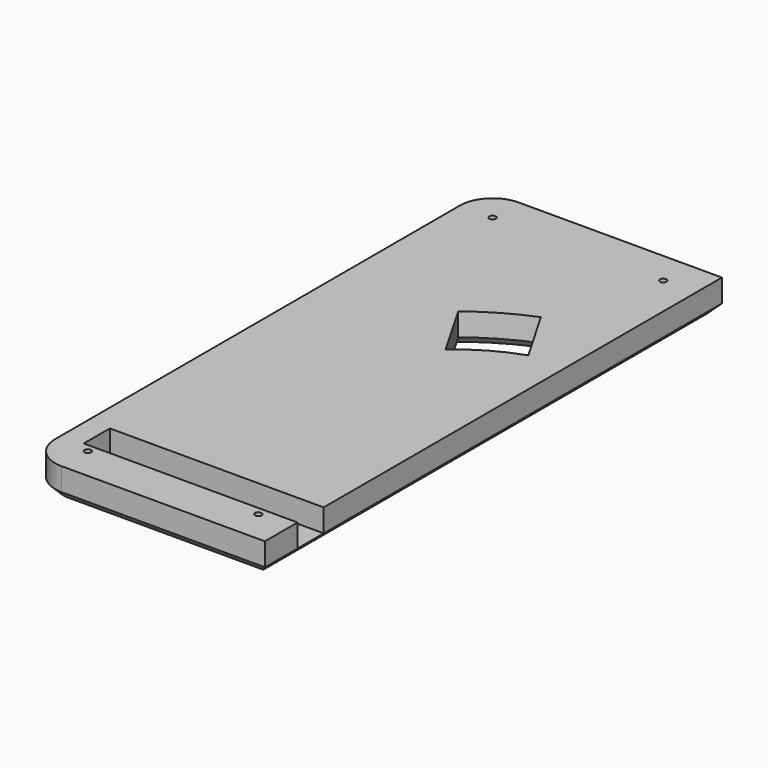
from build123d import *

# Parameters (mm, degrees)
SKETCH024_W             = 144.5
SKETCH024_H             = 350
PAD017_DEPTH            = 19
FILLET007_R             = 20
SKETCH025_R             = 2
POCKET015_DEPTH         = 19.001
CHAMFER005_SIZE         = 5
POCKET020_DEPTH         = 19.001
CHAMFER006_SIZE         = 5
CHAMFER007_SIZE         = 3
SKETCH045_W             = 131
SKETCH045_H             = 20
POCKET029_DEPTH         = 14
BODY013_PLACEMENT_ANGLE = 180


with BuildPart() as part:
    # Sketch024 → Pad017 (new body)
    with BuildSketch(Plane.XY):
        with Locations((307.25, 41.2)):
            Rectangle(SKETCH024_W, SKETCH024_H)
    extrude(amount=PAD017_DEPTH)

    # Fillet007
    fillet007_edges = [part.edges().sort_by_distance(p)[0] for p in [
        (379.5, 216.2, 9.5),
        (379.5, -133.8, 9.5),
    ]]
    fillet(fillet007_edges, radius=FILLET007_R)

    # Sketch025 (on Face5 of Fillet007) → Pocket015 (cut, through all)
    with BuildSketch(Plane.XY.offset(19)):
        with Locations((359.5, 196.2)):
            Circle(SKETCH025_R)
        with Locations((359.5, -113.8)):
            Circle(SKETCH025_R)
        with Locations((255, -113.8)):
            Circle(SKETCH025_R)
        with Locations((255, 196.2)):
            Circle(SKETCH025_R)
    extrude(amount=-POCKET015_DEPTH, mode=Mode.SUBTRACT)

    # Chamfer005
    chamfer005_edges = [part.edges().sort_by_distance(p)[0] for p in [
        (297.25, 216.2, 19),
        (235, 41.2, 19),
    ]]
    chamfer(chamfer005_edges, length=CHAMFER005_SIZE)

    # Sketch030 (on Face9 of Chamfer005) → Pocket020 (cut, through all)
    with BuildSketch(Plane.XY.offset(19)):
        with BuildLine():
            Line((256.961524, 95.358984), (276.961524, 130))
            ThreePointArc((311.60254, 110), (295, 121.243557), (276.961524, 130))
            Line((311.60254, 110), (291.60254, 75.358984))
            ThreePointArc((291.60254, 75.358984), (275.286367, 87.098543), (256.961524, 95.358984))
        make_face()
    extrude(amount=-POCKET020_DEPTH, mode=Mode.SUBTRACT)

    # Chamfer006
    chamfer006_edges = [part.edges().sort_by_distance(p)[0] for p in [
        (295, 121.243557, 19),
        (266.961524, 112.679492, 19),
        (275.286367, 87.098543, 19),
        (301.60254, 92.679492, 19),
    ]]
    chamfer(chamfer006_edges, length=CHAMFER006_SIZE)

    # Chamfer007
    chamfer007_edges = [part.edges().sort_by_distance(p)[0] for p in [
        (253, 196.2, 19),
        (357.5, 196.2, 19),
        (357.5, -113.8, 19),
        (253, -113.8, 19),
    ]]
    chamfer(chamfer007_edges, length=CHAMFER007_SIZE)

    # Sketch045 (on Face30 of Chamfer007) → Pocket029 (cut)
    with BuildSketch(Plane(origin=(0, 0, 0), x_dir=(1, 0, 0), z_dir=(0, 0, -1))):
        with Locations((300.5, 98.8)):
            Rectangle(SKETCH045_W, SKETCH045_H)
    extrude(amount=-POCKET029_DEPTH, mode=Mode.SUBTRACT)


with BuildPart() as part_1:
    # Body013 placement: moved
    add(part.part.moved(Location((0, 0, 10))).rotate(Axis((0, 0, 10), (0, 1, 0)), BODY013_PLACEMENT_ANGLE))


with BuildPart() as part_2:
    # Clone placement: moved
    add(part_1.part.moved(Location((379.5, 133.8, -10))))


solid = part_2.part
